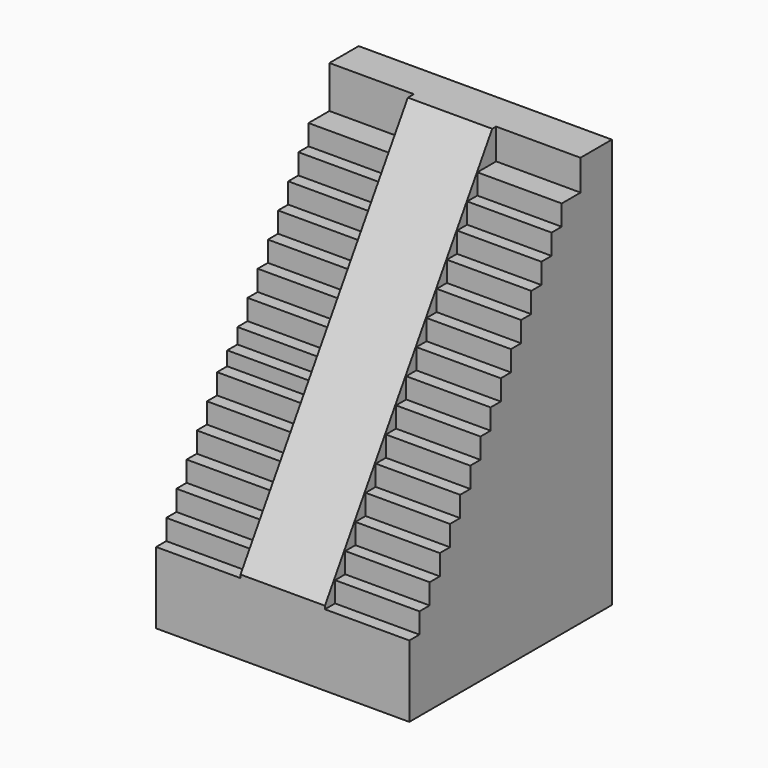
from build123d import *

# Parameters (mm, degrees)
F0_W     = 627.888
F0_H     = 627.888
F1_DEPTH = 1016
F3_DEPTH = 209.296
F5_DEPTH = 209.296
F7_DEPTH = 209.296


with BuildPart() as f1:
    # F0 (on Top) → F1 (new body)
    with BuildSketch(Plane.XY):
        with Locations((152.424791, 157.284912)):
            Rectangle(F0_W, F0_H)
    extrude(amount=F1_DEPTH)

    # F2 (on face) → F3 (cut)
    with BuildSketch(Plane.YZ.offset(466.368791)):
        Polygon((-156.659088, 1016), (-156.659088, 177.8), (-125.163088, 177.8), (-125.163088, 228.6), (-93.667088, 228.6), (-93.667088, 279.4), (-62.171088, 279.4), (-62.171088, 330.2), (-30.675088, 330.2), (-30.675088, 381), (0.820912, 381), (0.820912, 431.8), (32.316912, 431.8), (32.316912, 482.6), (63.812912, 482.602637), (63.812912, 533.402637), (95.308912, 533.402637), (95.308912, 584.202637), (126.804912, 584.202637), (126.804912, 635.002637), (158.300912, 635.002637), (158.300912, 685.802637), (189.796912, 685.802637), (189.796912, 736.602637), (221.292912, 736.602637), (221.292912, 787.402637), (252.788912, 787.402637), (252.788912, 838.202637), (284.284912, 838.202637), (284.284912, 889.002637), (315.780912, 889.002637), (315.780912, 939.802637), (374.181002, 939.802637), (373.890931, 1016), align=None)
    extrude(amount=-F3_DEPTH, mode=Mode.SUBTRACT)

    # F4 (on face) → F5 (cut)
    with BuildSketch(Plane.YZ.offset(257.072791)):
        Polygon((-156.659088, 185.628965), (361.928195, 1016), (-156.659088, 1016), align=None)
    extrude(amount=-F5_DEPTH, mode=Mode.SUBTRACT)

    # F6 (on face) → F7 (cut)
    with BuildSketch(Plane(origin=(-161.519209, 0, 0), x_dir=(0, -1, 0), z_dir=(-1, 0, 0))):
        Polygon((156.659088, 1016), (-380.538228, 1016), (-380.538228, 911.203689), (-315.768228, 911.203689), (-315.768228, 860.403689), (-284.272228, 860.403689), (-284.272228, 809.603689), (-252.776228, 809.603689), (-252.776228, 758.803689), (-221.280228, 758.803689), (-221.280228, 708.003689), (-189.784228, 708.003689), (-189.784228, 657.203689), (-158.288228, 657.203689), (-158.288228, 606.403689), (-126.792228, 606.403689), (-126.792228, 555.603689), (-95.296228, 555.603689), (-95.296228, 517.449326), (-63.800228, 517.449326), (-63.800228, 482.611007), (-32.304228, 482.60837), (-32.304228, 431.80837), (-0.808228, 431.80837), (-0.808228, 381.00837), (30.687772, 381.00837), (30.687772, 330.20837), (62.183772, 330.20837), (62.183772, 279.40837), (93.679772, 279.40837), (93.679772, 228.60837), (125.175772, 228.60837), (125.175772, 177.80837), (156.659088, 177.80837), align=None)
    extrude(amount=-F7_DEPTH, mode=Mode.SUBTRACT)


solid = f1.part
